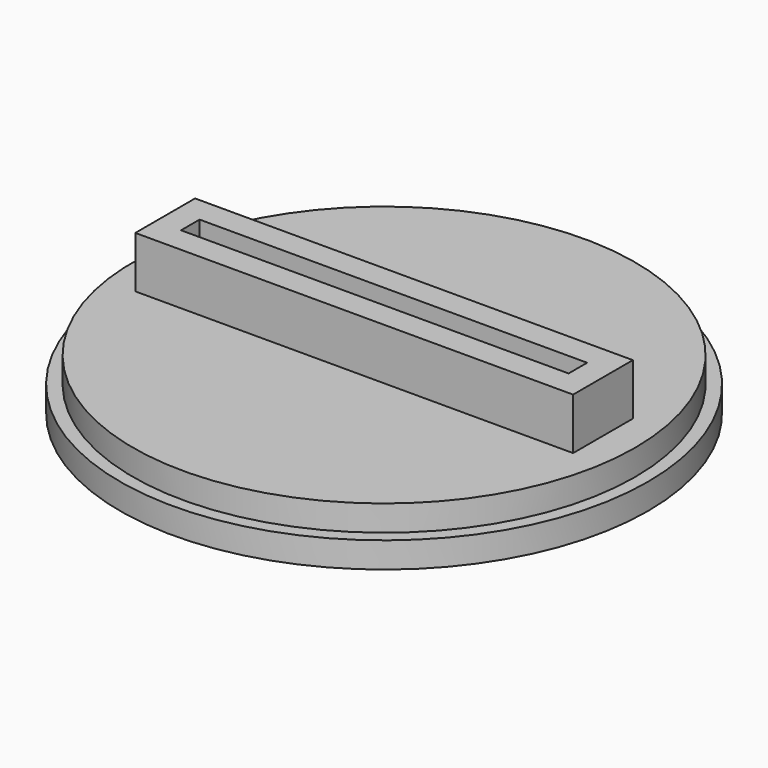
from build123d import *

# Parameters (mm, degrees)
SKETCH_R     = 20.5
PAD_DEPTH    = 2
SKETCH001_R  = 19.5
PAD001_DEPTH = 2
SKETCH002_W  = 34
SKETCH002_H  = 5.8
PAD002_DEPTH = 4
SKETCH003_W  = 30.1
SKETCH003_H  = 1.8
POCKET_DEPTH = 3


with BuildPart() as part:
    # Sketch → Pad (new body)
    with BuildSketch(Plane.XY):
        Circle(SKETCH_R)
    extrude(amount=PAD_DEPTH)

    # Sketch001 (on Face3 of Pad) → Pad001 (join)
    with BuildSketch(Plane.XY.offset(2)):
        Circle(SKETCH001_R)
    extrude(amount=PAD001_DEPTH)

    # Sketch002 (on Face5 of Pad001) → Pad002 (join)
    with BuildSketch(Plane.XY.offset(4)):
        Rectangle(SKETCH002_W, SKETCH002_H)
    extrude(amount=PAD002_DEPTH)

    # Sketch003 (on Face10 of Pad002) → Pocket (cut)
    with BuildSketch(Plane.XY.offset(8)):
        Rectangle(SKETCH003_W, SKETCH003_H)
    extrude(amount=-POCKET_DEPTH, mode=Mode.SUBTRACT)


solid = part.part
